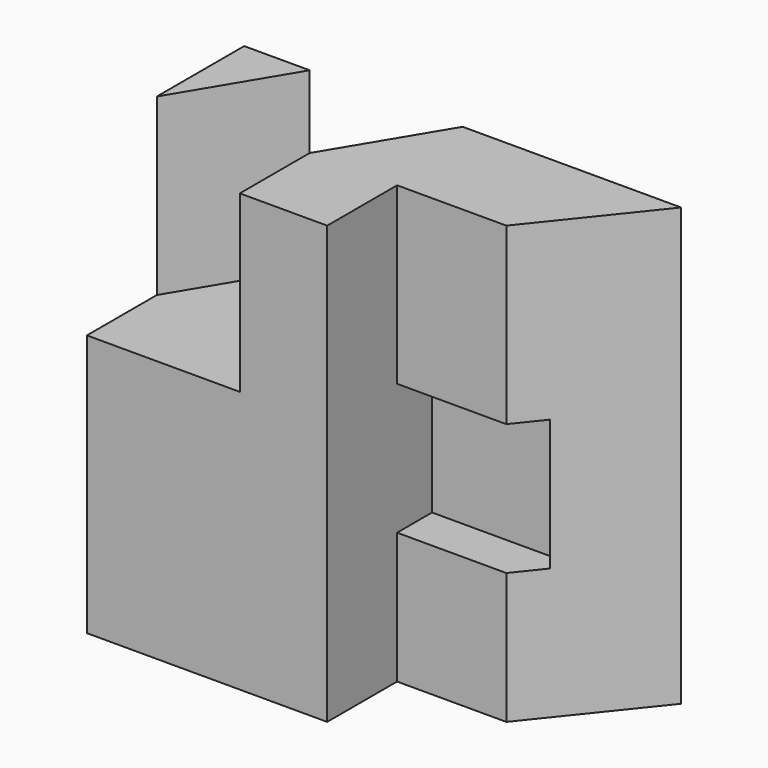
from build123d import *

# Parameters (mm, degrees)
F0_W      = 100
F0_H      = 100
F1_DEPTH  = 45
F2_W      = 45
F2_H      = 100
F3_DEPTH  = 20
F4_W      = 35
F4_H      = 45
F5_DEPTH  = 40
F7_DEPTH  = 40
F10_DEPTH = 100.001
F8_W      = 30
F8_H      = 30
F11_DEPTH = 10
F13_DEPTH = 85


with BuildPart() as f1:
    # F0 (on Front) → F1 (new body)
    with BuildSketch(Plane.XZ):
        with Locations((50, 50)):
            Rectangle(F0_W, F0_H)
    extrude(amount=F1_DEPTH)

    # F2 (on face) → F3 (cut)
    with BuildSketch(Plane.XZ.offset(45)):
        with Locations((77.5, 50)):
            Rectangle(F2_W, F2_H)
    extrude(amount=-F3_DEPTH, mode=Mode.SUBTRACT)

    # F4 (on face) → F5 (cut)
    with BuildSketch(Plane.XY.offset(100)):
        with Locations((17.5, -22.5)):
            Rectangle(F4_W, F4_H)
    extrude(amount=-F5_DEPTH, mode=Mode.SUBTRACT)

    # F6 (on face) → F7 (join)
    with BuildSketch(Plane.XY.offset(60)):
        Polygon((15, 0), (0, 0), (0, -25), align=None)
    extrude(amount=F7_DEPTH)

    # F9 (on face) → F10 (cut, through all)
    with BuildSketch(Plane.XY.offset(100)):
        Polygon((100, -25), (100, 0), (80, -25), align=None)
    extrude(amount=-F10_DEPTH, mode=Mode.SUBTRACT)

    # F8 (on face) → F11 (cut)
    with BuildSketch(Plane.XZ.offset(25)):
        with Locations((70, 45)):
            Rectangle(F8_W, F8_H)
    extrude(amount=-F11_DEPTH, mode=Mode.SUBTRACT)

    # F12 (on face) → F13 (cut)
    with BuildSketch(Plane.XY.offset(100)):
        Polygon((50, 0), (35, 0), (35, -25), align=None)
    extrude(amount=-F13_DEPTH, mode=Mode.SUBTRACT)


solid = f1.part
